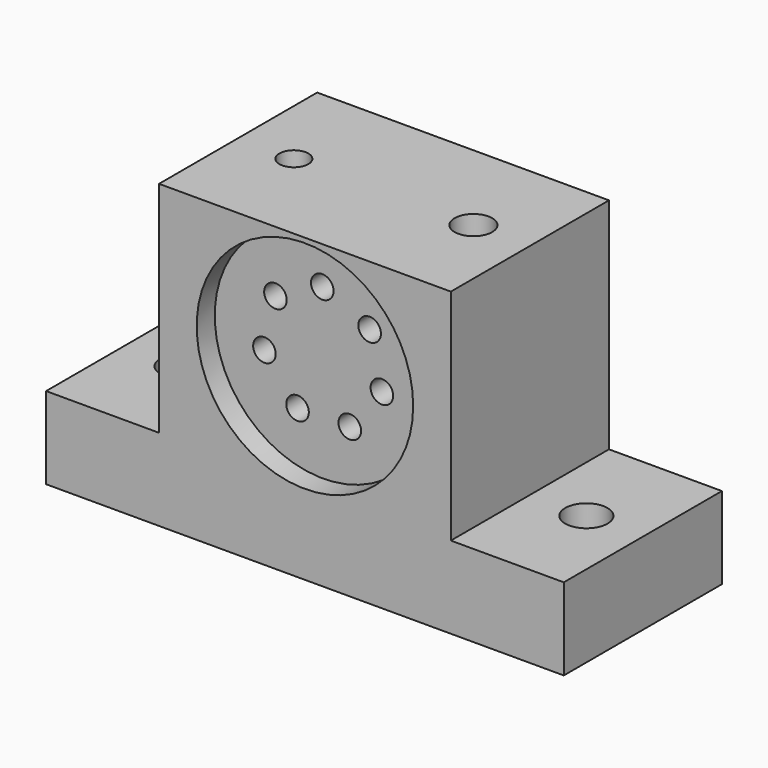
from build123d import *

# Parameters (mm, degrees)
F1_DEPTH = 16.66875
F2_R     = 3.571875
F3_DEPTH = 13.833281
F4_R     = 3.175
F4_R_2   = 2.440092
F5_DEPTH = 12.7
F6_R     = 18.25625
F7_DEPTH = 3.81
F8_R     = 1.905
F9_DEPTH = 29.5285


with BuildPart() as f1:
    # F0 (on Front) → F1 (new body, symmetric)
    with BuildSketch(Plane.XZ):
        Polygon((-43.65625, 13.832281), (-43.65625, 0), (43.65625, 0), (43.65625, 13.832281), (24.60625, 13.832281), (24.60625, 50.8), (0, 50.8), (-24.60625, 50.8), (-24.60625, 13.832281), align=None)
    extrude(amount=F1_DEPTH, both=True)

    # F2 (on face) → F3 (cut, through all)
    with BuildSketch(Plane.XY.offset(13.832281)):
        with Locations((-34.13125, 0)):
            Circle(F2_R)
        with Locations((34.13125, 0)):
            Circle(F2_R)
    extrude(amount=-F3_DEPTH, mode=Mode.SUBTRACT)

    # F4 (on face) → F5 (cut)
    with BuildSketch(Plane.XY.offset(50.8)):
        with Locations((15.08125, 0)):
            Circle(F4_R)
        with Locations((-15.197981, 0)):
            Circle(F4_R_2)
    extrude(amount=-F5_DEPTH, mode=Mode.SUBTRACT)

    # F6 (on face) → F7 (cut)
    with BuildSketch(Plane.XZ.offset(16.66875)):
        with Locations((0, 31.75)):
            Circle(F6_R)
    extrude(amount=-F7_DEPTH, mode=Mode.SUBTRACT)

    # F8 (on face) → F9 (cut, through all)
    with BuildSketch(Plane.XZ.offset(12.85875)):
        with Locations((-8.019643, 37.987862)):
            Circle(F8_R)
        with Locations((-0.123209, 41.909253)):
            Circle(F8_R)
        with Locations((7.866004, 38.180519)):
            Circle(F8_R)
        with Locations((9.931956, 29.609473)):
            Circle(F8_R)
        with Locations((4.518942, 22.650288)):
            Circle(F8_R)
        with Locations((-4.296927, 22.543371)):
            Circle(F8_R)
        with Locations((-9.877123, 29.369234)):
            Circle(F8_R)
    extrude(amount=-F9_DEPTH, mode=Mode.SUBTRACT)


solid = f1.part
